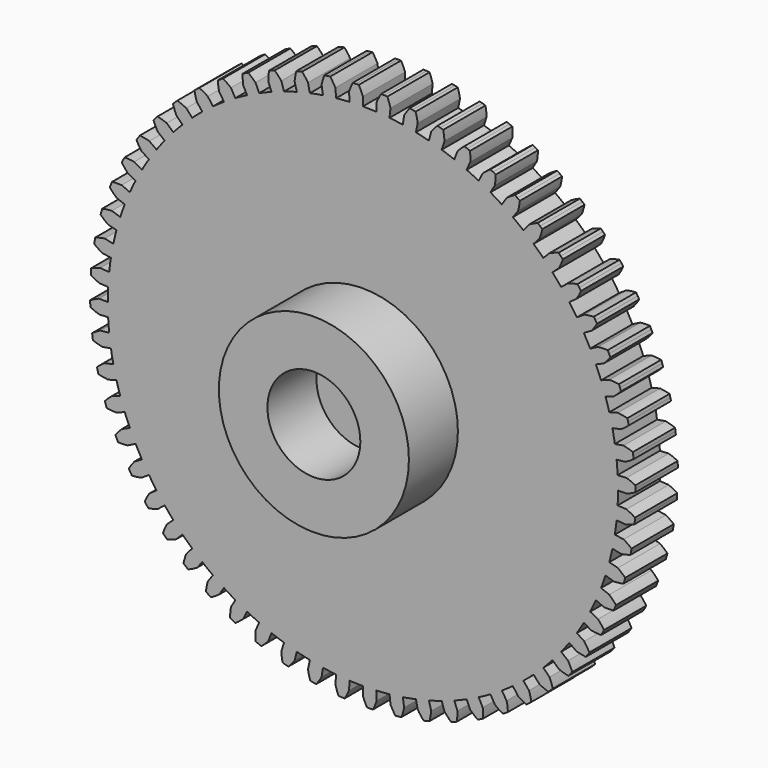
from build123d import *

# Parameters (mm, degrees)
F1_DEPTH = 6.35
F2_R     = 11.43
F3_DEPTH = 7.366
F4_R     = 5.588
F5_DEPTH = 7.366


with BuildPart() as f1:
    # F0 (on Front) → F1 (new body)
    with BuildSketch(Plane.XZ):
        with BuildLine():
            ThreePointArc((0, 31.75), (-0.228242, 32.284246), (-0.494949, 32.800366))
            ThreePointArc((-0.494949, 32.800366), (-0.676841, 32.797117), (-0.858711, 32.792859))
            ThreePointArc((-0.858711, 32.792859), (-1.040555, 32.787592), (-1.222367, 32.781318))
            ThreePointArc((-1.222367, 32.781318), (-1.461697, 32.251946), (-1.661667, 31.706488))
            Line((-1.661667, 31.706488), (-1.605835, 30.64115))
            ThreePointArc((-1.605835, 30.64115), (-2.407376, 30.588614), (-3.207268, 30.515114))
            Line((-3.207268, 30.515114), (-3.318779, 31.57607))
            ThreePointArc((-3.318779, 31.57607), (-3.601615, 32.083531), (-3.92081, 32.568946))
            ThreePointArc((-3.92081, 32.568946), (-4.101365, 32.546702), (-4.281794, 32.523456))
            ThreePointArc((-4.281794, 32.523456), (-4.462092, 32.499211), (-4.642252, 32.473966))
            ThreePointArc((-4.642252, 32.473966), (-4.824936, 31.922478), (-4.966794, 31.359105))
            Line((-4.966794, 31.359105), (-4.79991, 30.305439))
            ThreePointArc((-4.79991, 30.305439), (-5.591569, 30.169407), (-6.379396, 30.012698))
            Line((-6.379396, 30.012698), (-6.601196, 31.056186))
            ThreePointArc((-6.601196, 31.056186), (-6.935527, 31.531303), (-7.303713, 31.980693))
            ThreePointArc((-7.303713, 31.980693), (-7.480954, 31.939698), (-7.657965, 31.89772))
            ThreePointArc((-7.657965, 31.89772), (-7.83474, 31.854761), (-8.011275, 31.810823))
            ThreePointArc((-8.011275, 31.810823), (-8.135312, 31.24326), (-8.217505, 30.668145))
            Line((-8.217505, 30.668145), (-7.941397, 29.637695))
            ThreePointArc((-7.941397, 29.637695), (-8.7145, 29.419658), (-9.48163, 29.181457))
            Line((-9.48163, 29.181457), (-9.81129, 30.196044))
            ThreePointArc((-9.81129, 30.196044), (-10.193452, 30.633611), (-10.606595, 31.042054))
            ThreePointArc((-10.606595, 31.042054), (-10.77858, 30.982756), (-10.950234, 30.922506))
            ThreePointArc((-10.950234, 30.922506), (-11.12155, 30.861304), (-11.292525, 30.799154))
            ThreePointArc((-11.292525, 30.799154), (-11.356556, 30.221734), (-11.378182, 29.641179))
            Line((-11.378182, 29.641179), (-10.995875, 28.645235))
            ThreePointArc((-10.995875, 28.645235), (-11.741952, 28.34758), (-12.479982, 28.030498))
            Line((-12.479982, 28.030498), (-12.913888, 29.005068))
            ThreePointArc((-12.913888, 29.005068), (-13.339695, 29.400291), (-13.79327, 29.763311))
            ThreePointArc((-13.79327, 29.763311), (-13.958114, 29.686361), (-14.122529, 29.608498))
            ThreePointArc((-14.122529, 29.608498), (-14.28651, 29.529724), (-14.450051, 29.450042))
            ThreePointArc((-14.450051, 29.450042), (-14.453375, 28.869093), (-14.414198, 28.289457))
            Line((-14.414198, 28.289457), (-13.929881, 27.338931))
            ThreePointArc((-13.929881, 27.338931), (-14.640758, 26.964921), (-15.3416, 26.572431))
            Line((-15.3416, 26.572431), (-15.875, 27.496307))
            ThreePointArc((-15.875, 27.496307), (-16.339786, 27.844856), (-16.828822, 28.158475))
            ThreePointArc((-16.828822, 28.158475), (-16.98472, 28.064716), (-17.140095, 27.970093))
            ThreePointArc((-17.140095, 27.970093), (-17.294944, 27.87461), (-17.44926, 27.77827))
            ThreePointArc((-17.44926, 27.77827), (-17.39184, 27.200156), (-17.292289, 26.627791))
            Line((-17.292289, 26.627791), (-16.711268, 25.733097))
            ThreePointArc((-16.711268, 25.733097), (-17.379156, 25.286829), (-18.035132, 24.82323))
            Line((-18.035132, 24.82323), (-18.662182, 25.68629))
            ThreePointArc((-18.662182, 25.68629), (-19.160855, 25.984346), (-19.679994, 26.245129))
            ThreePointArc((-19.679994, 26.245129), (-19.825237, 26.135588), (-19.969871, 26.025242))
            ThreePointArc((-19.969871, 26.025242), (-20.11389, 25.914096), (-20.257291, 25.802154))
            ThreePointArc((-20.257291, 25.802154), (-20.139756, 25.233209), (-19.980922, 24.674384))
            Line((-19.980922, 24.674384), (-19.309563, 23.845325))
            ThreePointArc((-19.309563, 23.845325), (-19.927144, 23.331688), (-20.531068, 22.802061))
            Line((-20.531068, 22.802061), (-21.244897, 23.594848))
            ThreePointArc((-21.244897, 23.594848), (-21.771994, 23.839146), (-22.315548, 24.044236))
            ThreePointArc((-22.315548, 24.044236), (-22.448545, 23.920113), (-22.580852, 23.795253))
            ThreePointArc((-22.580852, 23.795253), (-22.712465, 23.669662), (-22.843379, 23.543343))
            ThreePointArc((-22.843379, 23.543343), (-22.667017, 22.989801), (-22.45064, 22.45064))
            Line((-22.45064, 22.45064), (-21.696299, 21.696299))
            ThreePointArc((-21.696299, 21.696299), (-22.256807, 21.120921), (-22.802061, 20.531068))
            Line((-22.802061, 20.531068), (-23.594848, 21.244897))
            ThreePointArc((-23.594848, 21.244897), (-24.144594, 21.43276), (-24.706608, 21.57991))
            ThreePointArc((-24.706608, 21.57991), (-24.825902, 21.442564), (-24.944433, 21.304559))
            ThreePointArc((-24.944433, 21.304559), (-25.062197, 21.165898), (-25.17919, 21.026587))
            ThreePointArc((-25.17919, 21.026587), (-24.945933, 20.494512), (-24.674384, 19.980922))
            Line((-24.674384, 19.980922), (-23.845325, 19.309563))
            ThreePointArc((-23.845325, 19.309563), (-24.342619, 18.678749), (-24.82323, 18.035132))
            Line((-24.82323, 18.035132), (-25.68629, 18.662182))
            ThreePointArc((-25.68629, 18.662182), (-26.252661, 18.791551), (-26.826977, 18.879149))
            ThreePointArc((-26.826977, 18.879149), (-26.931262, 18.730086), (-27.034718, 18.580447))
            ThreePointArc((-27.034718, 18.580447), (-27.137343, 18.430236), (-27.239133, 18.279459))
            ThreePointArc((-27.239133, 18.279459), (-26.951537, 17.77468), (-26.627791, 17.292289))
            Line((-26.627791, 17.292289), (-25.733097, 16.711268))
            ThreePointArc((-25.733097, 16.711268), (-26.161729, 16.031928), (-26.572431, 15.3416))
            Line((-26.572431, 15.3416), (-27.496307, 15.875))
            ThreePointArc((-27.496307, 15.875), (-28.073098, 15.944459), (-28.653425, 15.971544))
            ThreePointArc((-28.653425, 15.971544), (-28.741557, 15.812397), (-28.828804, 15.652764))
            ThreePointArc((-28.828804, 15.652764), (-28.915166, 15.492649), (-29.000638, 15.332058))
            ThreePointArc((-29.000638, 15.332058), (-28.661854, 14.860106), (-28.289457, 14.414198))
            Line((-28.289457, 14.414198), (-27.338931, 13.929881))
            ThreePointArc((-27.338931, 13.929881), (-27.694205, 13.209458), (-28.030498, 12.479982))
            Line((-28.030498, 12.479982), (-29.005068, 12.913888))
            ThreePointArc((-29.005068, 12.913888), (-29.58596, 12.922676), (-30.165939, 12.888952))
            ThreePointArc((-30.165939, 12.888952), (-30.236953, 12.721464), (-30.307037, 12.553586))
            ThreePointArc((-30.307037, 12.553586), (-30.376188, 12.385321), (-30.444406, 12.216675))
            ThreePointArc((-30.444406, 12.216675), (-30.058145, 11.782721), (-29.641179, 11.378182))
            Line((-29.641179, 11.378182), (-28.645235, 10.995875))
            ThreePointArc((-28.645235, 10.995875), (-28.923257, 10.242263), (-29.181457, 9.48163))
            Line((-29.181457, 9.48163), (-30.196044, 9.81129))
            ThreePointArc((-30.196044, 9.81129), (-30.774673, 9.759309), (-31.34795, 9.665146))
            ThreePointArc((-31.34795, 9.665146), (-31.401067, 9.491153), (-31.453218, 9.316868))
            ThreePointArc((-31.453218, 9.316868), (-31.504403, 9.142296), (-31.554618, 8.967444))
            ThreePointArc((-31.554618, 8.967444), (-31.125113, 8.576243), (-30.668145, 8.217505))
            Line((-30.668145, 8.217505), (-29.637695, 7.941397))
            ThreePointArc((-29.637695, 7.941397), (-29.835421, 7.162851), (-30.012698, 6.379396))
            Line((-30.012698, 6.379396), (-31.056186, 6.601196))
            ThreePointArc((-31.056186, 6.601196), (-31.626212, 6.489017), (-32.186505, 6.335446))
            ThreePointArc((-32.186505, 6.335446), (-32.221144, 6.156854), (-32.254792, 5.978072))
            ThreePointArc((-32.254792, 5.978072), (-32.287449, 5.799107), (-32.319112, 5.619964))
            ThreePointArc((-32.319112, 5.619964), (-31.851068, 5.275801), (-31.359105, 4.966794))
            Line((-31.359105, 4.966794), (-30.305439, 4.79991))
            ThreePointArc((-30.305439, 4.79991), (-30.420701, 4.004961), (-30.515114, 3.207268))
            Line((-30.515114, 3.207268), (-31.57607, 3.318779))
            ThreePointArc((-31.57607, 3.318779), (-32.131247, 3.147631), (-32.672418, 2.936334))
            ThreePointArc((-32.672418, 2.936334), (-32.6882, 2.755099), (-32.702976, 2.57378))
            ThreePointArc((-32.702976, 2.57378), (-32.716746, 2.392382), (-32.72951, 2.21091))
            ThreePointArc((-32.72951, 2.21091), (-32.228056, 1.917556), (-31.706488, 1.661667))
            Line((-31.706488, 1.661667), (-30.64115, 1.605835))
            ThreePointArc((-30.64115, 1.605835), (-30.672686, 0.803193), (-30.6832, 0))
            Line((-30.6832, 0), (-31.75, 0))
            ThreePointArc((-31.75, 0), (-32.284246, -0.228242), (-32.800366, -0.494949))
            ThreePointArc((-32.800366, -0.494949), (-32.797117, -0.676841), (-32.792859, -0.858711))
            ThreePointArc((-32.792859, -0.858711), (-32.787592, -1.040555), (-32.781318, -1.222367))
            ThreePointArc((-32.781318, -1.222367), (-32.251946, -1.461697), (-31.706488, -1.661667))
            Line((-31.706488, -1.661667), (-30.64115, -1.605835))
            ThreePointArc((-30.64115, -1.605835), (-30.588614, -2.407376), (-30.515114, -3.207268))
            Line((-30.515114, -3.207268), (-31.57607, -3.318779))
            ThreePointArc((-31.57607, -3.318779), (-32.083531, -3.601615), (-32.568946, -3.92081))
            ThreePointArc((-32.568946, -3.92081), (-32.546702, -4.101365), (-32.523456, -4.281794))
            ThreePointArc((-32.523456, -4.281794), (-32.499211, -4.462092), (-32.473966, -4.642252))
            ThreePointArc((-32.473966, -4.642252), (-31.922478, -4.824936), (-31.359105, -4.966794))
            Line((-31.359105, -4.966794), (-30.305439, -4.79991))
            ThreePointArc((-30.305439, -4.79991), (-30.169407, -5.591569), (-30.012698, -6.379396))
            Line((-30.012698, -6.379396), (-31.056186, -6.601196))
            ThreePointArc((-31.056186, -6.601196), (-31.531303, -6.935527), (-31.980693, -7.303713))
            ThreePointArc((-31.980693, -7.303713), (-31.939698, -7.480954), (-31.89772, -7.657965))
            ThreePointArc((-31.89772, -7.657965), (-31.854761, -7.83474), (-31.810823, -8.011275))
            ThreePointArc((-31.810823, -8.011275), (-31.24326, -8.135312), (-30.668145, -8.217505))
            Line((-30.668145, -8.217505), (-29.637695, -7.941397))
            ThreePointArc((-29.637695, -7.941397), (-29.419658, -8.7145), (-29.181457, -9.48163))
            Line((-29.181457, -9.48163), (-30.196044, -9.81129))
            ThreePointArc((-30.196044, -9.81129), (-30.633611, -10.193452), (-31.042054, -10.606595))
            ThreePointArc((-31.042054, -10.606595), (-30.982756, -10.77858), (-30.922506, -10.950234))
            ThreePointArc((-30.922506, -10.950234), (-30.861304, -11.12155), (-30.799154, -11.292525))
            ThreePointArc((-30.799154, -11.292525), (-30.221734, -11.356556), (-29.641179, -11.378182))
            Line((-29.641179, -11.378182), (-28.645235, -10.995875))
            ThreePointArc((-28.645235, -10.995875), (-28.34758, -11.741952), (-28.030498, -12.479982))
            Line((-28.030498, -12.479982), (-29.005068, -12.913888))
            ThreePointArc((-29.005068, -12.913888), (-29.400291, -13.339695), (-29.763311, -13.79327))
            ThreePointArc((-29.763311, -13.79327), (-29.686361, -13.958114), (-29.608498, -14.122529))
            ThreePointArc((-29.608498, -14.122529), (-29.529724, -14.28651), (-29.450042, -14.450051))
            ThreePointArc((-29.450042, -14.450051), (-28.869093, -14.453375), (-28.289457, -14.414198))
            Line((-28.289457, -14.414198), (-27.338931, -13.929881))
            ThreePointArc((-27.338931, -13.929881), (-26.964921, -14.640758), (-26.572431, -15.3416))
            Line((-26.572431, -15.3416), (-27.496307, -15.875))
            ThreePointArc((-27.496307, -15.875), (-27.844856, -16.339786), (-28.158475, -16.828822))
            ThreePointArc((-28.158475, -16.828822), (-28.064716, -16.98472), (-27.970093, -17.140095))
            ThreePointArc((-27.970093, -17.140095), (-27.87461, -17.294944), (-27.77827, -17.44926))
            ThreePointArc((-27.77827, -17.44926), (-27.200156, -17.39184), (-26.627791, -17.292289))
            Line((-26.627791, -17.292289), (-25.733097, -16.711268))
            ThreePointArc((-25.733097, -16.711268), (-25.286829, -17.379156), (-24.82323, -18.035132))
            Line((-24.82323, -18.035132), (-25.68629, -18.662182))
            ThreePointArc((-25.68629, -18.662182), (-25.984346, -19.160855), (-26.245129, -19.679994))
            ThreePointArc((-26.245129, -19.679994), (-26.135588, -19.825237), (-26.025242, -19.969871))
            ThreePointArc((-26.025242, -19.969871), (-25.914096, -20.11389), (-25.802154, -20.257291))
            ThreePointArc((-25.802154, -20.257291), (-25.233209, -20.139756), (-24.674384, -19.980922))
            Line((-24.674384, -19.980922), (-23.845325, -19.309563))
            ThreePointArc((-23.845325, -19.309563), (-23.331688, -19.927144), (-22.802061, -20.531068))
            Line((-22.802061, -20.531068), (-23.594848, -21.244897))
            ThreePointArc((-23.594848, -21.244897), (-23.839146, -21.771994), (-24.044236, -22.315548))
            ThreePointArc((-24.044236, -22.315548), (-23.920113, -22.448545), (-23.795253, -22.580852))
            ThreePointArc((-23.795253, -22.580852), (-23.669662, -22.712465), (-23.543343, -22.843379))
            ThreePointArc((-23.543343, -22.843379), (-22.989801, -22.667017), (-22.45064, -22.45064))
            Line((-22.45064, -22.45064), (-21.696299, -21.696299))
            ThreePointArc((-21.696299, -21.696299), (-21.120921, -22.256807), (-20.531068, -22.802061))
            Line((-20.531068, -22.802061), (-21.244897, -23.594848))
            ThreePointArc((-21.244897, -23.594848), (-21.43276, -24.144594), (-21.57991, -24.706608))
            ThreePointArc((-21.57991, -24.706608), (-21.442564, -24.825902), (-21.304559, -24.944433))
            ThreePointArc((-21.304559, -24.944433), (-21.165898, -25.062197), (-21.026587, -25.17919))
            ThreePointArc((-21.026587, -25.17919), (-20.494512, -24.945933), (-19.980922, -24.674384))
            Line((-19.980922, -24.674384), (-19.309563, -23.845325))
            ThreePointArc((-19.309563, -23.845325), (-18.678749, -24.342619), (-18.035132, -24.82323))
            Line((-18.035132, -24.82323), (-18.662182, -25.68629))
            ThreePointArc((-18.662182, -25.68629), (-18.791551, -26.252661), (-18.879149, -26.826977))
            ThreePointArc((-18.879149, -26.826977), (-18.730086, -26.931262), (-18.580447, -27.034718))
            ThreePointArc((-18.580447, -27.034718), (-18.430236, -27.137343), (-18.279459, -27.239133))
            ThreePointArc((-18.279459, -27.239133), (-17.77468, -26.951537), (-17.292289, -26.627791))
            Line((-17.292289, -26.627791), (-16.711268, -25.733097))
            ThreePointArc((-16.711268, -25.733097), (-16.031928, -26.161729), (-15.3416, -26.572431))
            Line((-15.3416, -26.572431), (-15.875, -27.496307))
            ThreePointArc((-15.875, -27.496307), (-15.944459, -28.073098), (-15.971544, -28.653425))
            ThreePointArc((-15.971544, -28.653425), (-15.812397, -28.741557), (-15.652764, -28.828804))
            ThreePointArc((-15.652764, -28.828804), (-15.492649, -28.915166), (-15.332058, -29.000638))
            ThreePointArc((-15.332058, -29.000638), (-14.860106, -28.661854), (-14.414198, -28.289457))
            Line((-14.414198, -28.289457), (-13.929881, -27.338931))
            ThreePointArc((-13.929881, -27.338931), (-13.209458, -27.694205), (-12.479982, -28.030498))
            Line((-12.479982, -28.030498), (-12.913888, -29.005068))
            ThreePointArc((-12.913888, -29.005068), (-12.922676, -29.58596), (-12.888952, -30.165939))
            ThreePointArc((-12.888952, -30.165939), (-12.721464, -30.236953), (-12.553586, -30.307037))
            ThreePointArc((-12.553586, -30.307037), (-12.385321, -30.376188), (-12.216675, -30.444406))
            ThreePointArc((-12.216675, -30.444406), (-11.782721, -30.058145), (-11.378182, -29.641179))
            Line((-11.378182, -29.641179), (-10.995875, -28.645235))
            ThreePointArc((-10.995875, -28.645235), (-10.242263, -28.923257), (-9.48163, -29.181457))
            Line((-9.48163, -29.181457), (-9.81129, -30.196044))
            ThreePointArc((-9.81129, -30.196044), (-9.759309, -30.774673), (-9.665146, -31.34795))
            ThreePointArc((-9.665146, -31.34795), (-9.491153, -31.401067), (-9.316868, -31.453218))
            ThreePointArc((-9.316868, -31.453218), (-9.142296, -31.504403), (-8.967444, -31.554618))
            ThreePointArc((-8.967444, -31.554618), (-8.576243, -31.125113), (-8.217505, -30.668145))
            Line((-8.217505, -30.668145), (-7.941397, -29.637695))
            ThreePointArc((-7.941397, -29.637695), (-7.162851, -29.835421), (-6.379396, -30.012698))
            Line((-6.379396, -30.012698), (-6.601196, -31.056186))
            ThreePointArc((-6.601196, -31.056186), (-6.489017, -31.626212), (-6.335446, -32.186505))
            ThreePointArc((-6.335446, -32.186505), (-6.156854, -32.221144), (-5.978072, -32.254792))
            ThreePointArc((-5.978072, -32.254792), (-5.799107, -32.287449), (-5.619964, -32.319112))
            ThreePointArc((-5.619964, -32.319112), (-5.275801, -31.851068), (-4.966794, -31.359105))
            Line((-4.966794, -31.359105), (-4.79991, -30.305439))
            ThreePointArc((-4.79991, -30.305439), (-4.004961, -30.420701), (-3.207268, -30.515114))
            Line((-3.207268, -30.515114), (-3.318779, -31.57607))
            ThreePointArc((-3.318779, -31.57607), (-3.147631, -32.131247), (-2.936334, -32.672418))
            ThreePointArc((-2.936334, -32.672418), (-2.755099, -32.6882), (-2.57378, -32.702976))
            ThreePointArc((-2.57378, -32.702976), (-2.392382, -32.716746), (-2.21091, -32.72951))
            ThreePointArc((-2.21091, -32.72951), (-1.917556, -32.228056), (-1.661667, -31.706488))
            Line((-1.661667, -31.706488), (-1.605835, -30.64115))
            ThreePointArc((-1.605835, -30.64115), (-0.803193, -30.672686), (0, -30.6832))
            Line((0, -30.6832), (0, -31.75))
            ThreePointArc((0, -31.75), (0.228242, -32.284246), (0.494949, -32.800366))
            ThreePointArc((0.494949, -32.800366), (0.676841, -32.797117), (0.858711, -32.792859))
            ThreePointArc((0.858711, -32.792859), (1.040555, -32.787592), (1.222367, -32.781318))
            ThreePointArc((1.222367, -32.781318), (1.461697, -32.251946), (1.661667, -31.706488))
            Line((1.661667, -31.706488), (1.605835, -30.64115))
            ThreePointArc((1.605835, -30.64115), (2.407376, -30.588614), (3.207268, -30.515114))
            Line((3.207268, -30.515114), (3.318779, -31.57607))
            ThreePointArc((3.318779, -31.57607), (3.601615, -32.083531), (3.92081, -32.568946))
            ThreePointArc((3.92081, -32.568946), (4.101365, -32.546702), (4.281794, -32.523456))
            ThreePointArc((4.281794, -32.523456), (4.462092, -32.499211), (4.642252, -32.473966))
            ThreePointArc((4.642252, -32.473966), (4.824936, -31.922478), (4.966794, -31.359105))
            Line((4.966794, -31.359105), (4.79991, -30.305439))
            ThreePointArc((4.79991, -30.305439), (5.591569, -30.169407), (6.379396, -30.012698))
            Line((6.379396, -30.012698), (6.601196, -31.056186))
            ThreePointArc((6.601196, -31.056186), (6.935527, -31.531303), (7.303713, -31.980693))
            ThreePointArc((7.303713, -31.980693), (7.480954, -31.939698), (7.657965, -31.89772))
            ThreePointArc((7.657965, -31.89772), (7.83474, -31.854761), (8.011275, -31.810823))
            ThreePointArc((8.011275, -31.810823), (8.135312, -31.24326), (8.217505, -30.668145))
            Line((8.217505, -30.668145), (7.941397, -29.637695))
            ThreePointArc((7.941397, -29.637695), (8.7145, -29.419658), (9.48163, -29.181457))
            Line((9.48163, -29.181457), (9.81129, -30.196044))
            ThreePointArc((9.81129, -30.196044), (10.193452, -30.633611), (10.606595, -31.042054))
            ThreePointArc((10.606595, -31.042054), (10.77858, -30.982756), (10.950234, -30.922506))
            ThreePointArc((10.950234, -30.922506), (11.12155, -30.861304), (11.292525, -30.799154))
            ThreePointArc((11.292525, -30.799154), (11.356556, -30.221734), (11.378182, -29.641179))
            Line((11.378182, -29.641179), (10.995875, -28.645235))
            ThreePointArc((10.995875, -28.645235), (11.741952, -28.34758), (12.479982, -28.030498))
            Line((12.479982, -28.030498), (12.913888, -29.005068))
            ThreePointArc((12.913888, -29.005068), (13.339695, -29.400291), (13.79327, -29.763311))
            ThreePointArc((13.79327, -29.763311), (13.958114, -29.686361), (14.122529, -29.608498))
            ThreePointArc((14.122529, -29.608498), (14.28651, -29.529724), (14.450051, -29.450042))
            ThreePointArc((14.450051, -29.450042), (14.453375, -28.869093), (14.414198, -28.289457))
            Line((14.414198, -28.289457), (13.929881, -27.338931))
            ThreePointArc((13.929881, -27.338931), (14.640758, -26.964921), (15.3416, -26.572431))
            Line((15.3416, -26.572431), (15.875, -27.496307))
            ThreePointArc((15.875, -27.496307), (16.339786, -27.844856), (16.828822, -28.158475))
            ThreePointArc((16.828822, -28.158475), (16.98472, -28.064716), (17.140095, -27.970093))
            ThreePointArc((17.140095, -27.970093), (17.294944, -27.87461), (17.44926, -27.77827))
            ThreePointArc((17.44926, -27.77827), (17.39184, -27.200156), (17.292289, -26.627791))
            Line((17.292289, -26.627791), (16.711268, -25.733097))
            ThreePointArc((16.711268, -25.733097), (17.379156, -25.286829), (18.035132, -24.82323))
            Line((18.035132, -24.82323), (18.662182, -25.68629))
            ThreePointArc((18.662182, -25.68629), (19.160855, -25.984346), (19.679994, -26.245129))
            ThreePointArc((19.679994, -26.245129), (19.825237, -26.135588), (19.969871, -26.025242))
            ThreePointArc((19.969871, -26.025242), (20.11389, -25.914096), (20.257291, -25.802154))
            ThreePointArc((20.257291, -25.802154), (20.139756, -25.233209), (19.980922, -24.674384))
            Line((19.980922, -24.674384), (19.309563, -23.845325))
            ThreePointArc((19.309563, -23.845325), (19.927144, -23.331688), (20.531068, -22.802061))
            Line((20.531068, -22.802061), (21.244897, -23.594848))
            ThreePointArc((21.244897, -23.594848), (21.771994, -23.839146), (22.315548, -24.044236))
            ThreePointArc((22.315548, -24.044236), (22.448545, -23.920113), (22.580852, -23.795253))
            ThreePointArc((22.580852, -23.795253), (22.712465, -23.669662), (22.843379, -23.543343))
            ThreePointArc((22.843379, -23.543343), (22.667017, -22.989801), (22.45064, -22.45064))
            Line((22.45064, -22.45064), (21.696299, -21.696299))
            ThreePointArc((21.696299, -21.696299), (22.256807, -21.120921), (22.802061, -20.531068))
            Line((22.802061, -20.531068), (23.594848, -21.244897))
            ThreePointArc((23.594848, -21.244897), (24.144594, -21.43276), (24.706608, -21.57991))
            ThreePointArc((24.706608, -21.57991), (24.825902, -21.442564), (24.944433, -21.304559))
            ThreePointArc((24.944433, -21.304559), (25.062197, -21.165898), (25.17919, -21.026587))
            ThreePointArc((25.17919, -21.026587), (24.945933, -20.494512), (24.674384, -19.980922))
            Line((24.674384, -19.980922), (23.845325, -19.309563))
            ThreePointArc((23.845325, -19.309563), (24.342619, -18.678749), (24.82323, -18.035132))
            Line((24.82323, -18.035132), (25.68629, -18.662182))
            ThreePointArc((25.68629, -18.662182), (26.252661, -18.791551), (26.826977, -18.879149))
            ThreePointArc((26.826977, -18.879149), (26.931262, -18.730086), (27.034718, -18.580447))
            ThreePointArc((27.034718, -18.580447), (27.137343, -18.430236), (27.239133, -18.279459))
            ThreePointArc((27.239133, -18.279459), (26.951537, -17.77468), (26.627791, -17.292289))
            Line((26.627791, -17.292289), (25.733097, -16.711268))
            ThreePointArc((25.733097, -16.711268), (26.161729, -16.031928), (26.572431, -15.3416))
            Line((26.572431, -15.3416), (27.496307, -15.875))
            ThreePointArc((27.496307, -15.875), (28.073098, -15.944459), (28.653425, -15.971544))
            ThreePointArc((28.653425, -15.971544), (28.741557, -15.812397), (28.828804, -15.652764))
            ThreePointArc((28.828804, -15.652764), (28.915166, -15.492649), (29.000638, -15.332058))
            ThreePointArc((29.000638, -15.332058), (28.661854, -14.860106), (28.289457, -14.414198))
            Line((28.289457, -14.414198), (27.338931, -13.929881))
            ThreePointArc((27.338931, -13.929881), (27.694205, -13.209458), (28.030498, -12.479982))
            Line((28.030498, -12.479982), (29.005068, -12.913888))
            ThreePointArc((29.005068, -12.913888), (29.58596, -12.922676), (30.165939, -12.888952))
            ThreePointArc((30.165939, -12.888952), (30.236953, -12.721464), (30.307037, -12.553586))
            ThreePointArc((30.307037, -12.553586), (30.376188, -12.385321), (30.444406, -12.216675))
            ThreePointArc((30.444406, -12.216675), (30.058145, -11.782721), (29.641179, -11.378182))
            Line((29.641179, -11.378182), (28.645235, -10.995875))
            ThreePointArc((28.645235, -10.995875), (28.923257, -10.242263), (29.181457, -9.48163))
            Line((29.181457, -9.48163), (30.196044, -9.81129))
            ThreePointArc((30.196044, -9.81129), (30.774673, -9.759309), (31.34795, -9.665146))
            ThreePointArc((31.34795, -9.665146), (31.401067, -9.491153), (31.453218, -9.316868))
            ThreePointArc((31.453218, -9.316868), (31.504403, -9.142296), (31.554618, -8.967444))
            ThreePointArc((31.554618, -8.967444), (31.125113, -8.576243), (30.668145, -8.217505))
            Line((30.668145, -8.217505), (29.637695, -7.941397))
            ThreePointArc((29.637695, -7.941397), (29.835421, -7.162851), (30.012698, -6.379396))
            Line((30.012698, -6.379396), (31.056186, -6.601196))
            ThreePointArc((31.056186, -6.601196), (31.626212, -6.489017), (32.186505, -6.335446))
            ThreePointArc((32.186505, -6.335446), (32.221144, -6.156854), (32.254792, -5.978072))
            ThreePointArc((32.254792, -5.978072), (32.287449, -5.799107), (32.319112, -5.619964))
            ThreePointArc((32.319112, -5.619964), (31.851068, -5.275801), (31.359105, -4.966794))
            Line((31.359105, -4.966794), (30.305439, -4.79991))
            ThreePointArc((30.305439, -4.79991), (30.420701, -4.004961), (30.515114, -3.207268))
            Line((30.515114, -3.207268), (31.57607, -3.318779))
            ThreePointArc((31.57607, -3.318779), (32.131247, -3.147631), (32.672418, -2.936334))
            ThreePointArc((32.672418, -2.936334), (32.6882, -2.755099), (32.702976, -2.57378))
            ThreePointArc((32.702976, -2.57378), (32.716746, -2.392382), (32.72951, -2.21091))
            ThreePointArc((32.72951, -2.21091), (32.228056, -1.917556), (31.706488, -1.661667))
            Line((31.706488, -1.661667), (30.64115, -1.605835))
            ThreePointArc((30.64115, -1.605835), (30.672686, -0.803193), (30.6832, 0))
            Line((30.6832, 0), (31.75, 0))
            ThreePointArc((31.75, 0), (32.284246, 0.228242), (32.800366, 0.494949))
            ThreePointArc((32.800366, 0.494949), (32.797117, 0.676841), (32.792859, 0.858711))
            ThreePointArc((32.792859, 0.858711), (32.787592, 1.040555), (32.781318, 1.222367))
            ThreePointArc((32.781318, 1.222367), (32.251946, 1.461697), (31.706488, 1.661667))
            Line((31.706488, 1.661667), (30.64115, 1.605835))
            ThreePointArc((30.64115, 1.605835), (30.588614, 2.407376), (30.515114, 3.207268))
            Line((30.515114, 3.207268), (31.57607, 3.318779))
            ThreePointArc((31.57607, 3.318779), (32.083531, 3.601615), (32.568946, 3.92081))
            ThreePointArc((32.568946, 3.92081), (32.546702, 4.101365), (32.523456, 4.281794))
            ThreePointArc((32.523456, 4.281794), (32.499211, 4.462092), (32.473966, 4.642252))
            ThreePointArc((32.473966, 4.642252), (31.922478, 4.824936), (31.359105, 4.966794))
            Line((31.359105, 4.966794), (30.305439, 4.79991))
            ThreePointArc((30.305439, 4.79991), (30.169407, 5.591569), (30.012698, 6.379396))
            Line((30.012698, 6.379396), (31.056186, 6.601196))
            ThreePointArc((31.056186, 6.601196), (31.531303, 6.935527), (31.980693, 7.303713))
            ThreePointArc((31.980693, 7.303713), (31.939698, 7.480954), (31.89772, 7.657965))
            ThreePointArc((31.89772, 7.657965), (31.854761, 7.83474), (31.810823, 8.011275))
            ThreePointArc((31.810823, 8.011275), (31.24326, 8.135312), (30.668145, 8.217505))
            Line((30.668145, 8.217505), (29.637695, 7.941397))
            ThreePointArc((29.637695, 7.941397), (29.419658, 8.7145), (29.181457, 9.48163))
            Line((29.181457, 9.48163), (30.196044, 9.81129))
            ThreePointArc((30.196044, 9.81129), (30.633611, 10.193452), (31.042054, 10.606595))
            ThreePointArc((31.042054, 10.606595), (30.982756, 10.77858), (30.922506, 10.950234))
            ThreePointArc((30.922506, 10.950234), (30.861304, 11.12155), (30.799154, 11.292525))
            ThreePointArc((30.799154, 11.292525), (30.221734, 11.356556), (29.641179, 11.378182))
            Line((29.641179, 11.378182), (28.645235, 10.995875))
            ThreePointArc((28.645235, 10.995875), (28.34758, 11.741952), (28.030498, 12.479982))
            Line((28.030498, 12.479982), (29.005068, 12.913888))
            ThreePointArc((29.005068, 12.913888), (29.400291, 13.339695), (29.763311, 13.79327))
            ThreePointArc((29.763311, 13.79327), (29.686361, 13.958114), (29.608498, 14.122529))
            ThreePointArc((29.608498, 14.122529), (29.529724, 14.28651), (29.450042, 14.450051))
            ThreePointArc((29.450042, 14.450051), (28.869093, 14.453375), (28.289457, 14.414198))
            Line((28.289457, 14.414198), (27.338931, 13.929881))
            ThreePointArc((27.338931, 13.929881), (26.964921, 14.640758), (26.572431, 15.3416))
            Line((26.572431, 15.3416), (27.496307, 15.875))
            ThreePointArc((27.496307, 15.875), (27.844856, 16.339786), (28.158475, 16.828822))
            ThreePointArc((28.158475, 16.828822), (28.064716, 16.98472), (27.970093, 17.140095))
            ThreePointArc((27.970093, 17.140095), (27.87461, 17.294944), (27.77827, 17.44926))
            ThreePointArc((27.77827, 17.44926), (27.200156, 17.39184), (26.627791, 17.292289))
            Line((26.627791, 17.292289), (25.733097, 16.711268))
            ThreePointArc((25.733097, 16.711268), (25.286829, 17.379156), (24.82323, 18.035132))
            Line((24.82323, 18.035132), (25.68629, 18.662182))
            ThreePointArc((25.68629, 18.662182), (25.984346, 19.160855), (26.245129, 19.679994))
            ThreePointArc((26.245129, 19.679994), (26.135588, 19.825237), (26.025242, 19.969871))
            ThreePointArc((26.025242, 19.969871), (25.914096, 20.11389), (25.802154, 20.257291))
            ThreePointArc((25.802154, 20.257291), (25.233209, 20.139756), (24.674384, 19.980922))
            Line((24.674384, 19.980922), (23.845325, 19.309563))
            ThreePointArc((23.845325, 19.309563), (23.331688, 19.927144), (22.802061, 20.531068))
            Line((22.802061, 20.531068), (23.594848, 21.244897))
            ThreePointArc((23.594848, 21.244897), (23.839146, 21.771994), (24.044236, 22.315548))
            ThreePointArc((24.044236, 22.315548), (23.920113, 22.448545), (23.795253, 22.580852))
            ThreePointArc((23.795253, 22.580852), (23.669662, 22.712465), (23.543343, 22.843379))
            ThreePointArc((23.543343, 22.843379), (22.989801, 22.667017), (22.45064, 22.45064))
            Line((22.45064, 22.45064), (21.696299, 21.696299))
            ThreePointArc((21.696299, 21.696299), (21.120921, 22.256807), (20.531068, 22.802061))
            Line((20.531068, 22.802061), (21.244897, 23.594848))
            ThreePointArc((21.244897, 23.594848), (21.43276, 24.144594), (21.57991, 24.706608))
            ThreePointArc((21.57991, 24.706608), (21.442564, 24.825902), (21.304559, 24.944433))
            ThreePointArc((21.304559, 24.944433), (21.165898, 25.062197), (21.026587, 25.17919))
            ThreePointArc((21.026587, 25.17919), (20.494512, 24.945933), (19.980922, 24.674384))
            Line((19.980922, 24.674384), (19.309563, 23.845325))
            ThreePointArc((19.309563, 23.845325), (18.678749, 24.342619), (18.035132, 24.82323))
            Line((18.035132, 24.82323), (18.662182, 25.68629))
            ThreePointArc((18.662182, 25.68629), (18.791551, 26.252661), (18.879149, 26.826977))
            ThreePointArc((18.879149, 26.826977), (18.730086, 26.931262), (18.580447, 27.034718))
            ThreePointArc((18.580447, 27.034718), (18.430236, 27.137343), (18.279459, 27.239133))
            ThreePointArc((18.279459, 27.239133), (17.77468, 26.951537), (17.292289, 26.627791))
            Line((17.292289, 26.627791), (16.711268, 25.733097))
            ThreePointArc((16.711268, 25.733097), (16.031928, 26.161729), (15.3416, 26.572431))
            Line((15.3416, 26.572431), (15.875, 27.496307))
            ThreePointArc((15.875, 27.496307), (15.944459, 28.073098), (15.971544, 28.653425))
            ThreePointArc((15.971544, 28.653425), (15.812397, 28.741557), (15.652764, 28.828804))
            ThreePointArc((15.652764, 28.828804), (15.492649, 28.915166), (15.332058, 29.000638))
            ThreePointArc((15.332058, 29.000638), (14.860106, 28.661854), (14.414198, 28.289457))
            Line((14.414198, 28.289457), (13.929881, 27.338931))
            ThreePointArc((13.929881, 27.338931), (13.209458, 27.694205), (12.479982, 28.030498))
            Line((12.479982, 28.030498), (12.913888, 29.005068))
            ThreePointArc((12.913888, 29.005068), (12.922676, 29.58596), (12.888952, 30.165939))
            ThreePointArc((12.888952, 30.165939), (12.721464, 30.236953), (12.553586, 30.307037))
            ThreePointArc((12.553586, 30.307037), (12.385321, 30.376188), (12.216675, 30.444406))
            ThreePointArc((12.216675, 30.444406), (11.782721, 30.058145), (11.378182, 29.641179))
            Line((11.378182, 29.641179), (10.995875, 28.645235))
            ThreePointArc((10.995875, 28.645235), (10.242263, 28.923257), (9.48163, 29.181457))
            Line((9.48163, 29.181457), (9.81129, 30.196044))
            ThreePointArc((9.81129, 30.196044), (9.759309, 30.774673), (9.665146, 31.34795))
            ThreePointArc((9.665146, 31.34795), (9.491153, 31.401067), (9.316868, 31.453218))
            ThreePointArc((9.316868, 31.453218), (9.142296, 31.504403), (8.967444, 31.554618))
            ThreePointArc((8.967444, 31.554618), (8.576243, 31.125113), (8.217505, 30.668145))
            Line((8.217505, 30.668145), (7.941397, 29.637695))
            ThreePointArc((7.941397, 29.637695), (7.162851, 29.835421), (6.379396, 30.012698))
            Line((6.379396, 30.012698), (6.601196, 31.056186))
            ThreePointArc((6.601196, 31.056186), (6.489017, 31.626212), (6.335446, 32.186505))
            ThreePointArc((6.335446, 32.186505), (6.156854, 32.221144), (5.978072, 32.254792))
            ThreePointArc((5.978072, 32.254792), (5.799107, 32.287449), (5.619964, 32.319112))
            ThreePointArc((5.619964, 32.319112), (5.275801, 31.851068), (4.966794, 31.359105))
            Line((4.966794, 31.359105), (4.79991, 30.305439))
            ThreePointArc((4.79991, 30.305439), (4.004961, 30.420701), (3.207268, 30.515114))
            Line((3.207268, 30.515114), (3.318779, 31.57607))
            ThreePointArc((3.318779, 31.57607), (3.147631, 32.131247), (2.936334, 32.672418))
            ThreePointArc((2.936334, 32.672418), (2.755099, 32.6882), (2.57378, 32.702976))
            ThreePointArc((2.57378, 32.702976), (2.392382, 32.716746), (2.21091, 32.72951))
            ThreePointArc((2.21091, 32.72951), (1.917556, 32.228056), (1.661667, 31.706488))
            Line((1.661667, 31.706488), (1.605835, 30.64115))
            ThreePointArc((1.605835, 30.64115), (0.803193, 30.672686), (0, 30.6832))
            Line((0, 30.6832), (0, 31.75))
        make_face()
        with BuildLine():
            ThreePointArc((-0.858711, 32.792859), (-0.676841, 32.797117), (-0.494949, 32.800366))
            Line((-0.494949, 32.800366), (-0.858764, 32.794876))
            Line((-0.858764, 32.794876), (-1.222367, 32.781318))
            ThreePointArc((-1.222367, 32.781318), (-1.040555, 32.787592), (-0.858711, 32.792859))
        make_face()
        with BuildLine():
            Line((2.573938, 32.704988), (2.21091, 32.72951))
            ThreePointArc((2.21091, 32.72951), (2.392382, 32.716746), (2.57378, 32.702976))
            ThreePointArc((2.57378, 32.702976), (2.755099, 32.6882), (2.936334, 32.672418))
            Line((2.936334, 32.672418), (2.573938, 32.704988))
        make_face()
        with BuildLine():
            ThreePointArc((-4.281794, 32.523456), (-4.101365, 32.546702), (-3.92081, 32.568946))
            Line((-3.92081, 32.568946), (-4.282058, 32.525457))
            Line((-4.282058, 32.525457), (-4.642252, 32.473966))
            ThreePointArc((-4.642252, 32.473966), (-4.462092, 32.499211), (-4.281794, 32.523456))
        make_face()
        with BuildLine():
            Line((5.97844, 32.256776), (5.619964, 32.319112))
            ThreePointArc((5.619964, 32.319112), (5.799107, 32.287449), (5.978072, 32.254792))
            ThreePointArc((5.978072, 32.254792), (6.156854, 32.221144), (6.335446, 32.186505))
            Line((6.335446, 32.186505), (5.97844, 32.256776))
        make_face()
        with BuildLine():
            ThreePointArc((-7.657965, 31.89772), (-7.480954, 31.939698), (-7.303713, 31.980693))
            Line((-7.303713, 31.980693), (-7.658436, 31.899682))
            Line((-7.658436, 31.899682), (-8.011275, 31.810823))
            ThreePointArc((-8.011275, 31.810823), (-7.83474, 31.854761), (-7.657965, 31.89772))
        make_face()
        with BuildLine():
            Line((9.317441, 31.455153), (8.967444, 31.554618))
            ThreePointArc((8.967444, 31.554618), (9.142296, 31.504403), (9.316868, 31.453218))
            ThreePointArc((9.316868, 31.453218), (9.491153, 31.401067), (9.665146, 31.34795))
            Line((9.665146, 31.34795), (9.317441, 31.455153))
        make_face()
        with BuildLine():
            ThreePointArc((-10.950234, 30.922506), (-10.77858, 30.982756), (-10.606595, 31.042054))
            Line((-10.606595, 31.042054), (-10.950907, 30.924408))
            Line((-10.950907, 30.924408), (-11.292525, 30.799154))
            ThreePointArc((-11.292525, 30.799154), (-11.12155, 30.861304), (-10.950234, 30.922506))
        make_face()
        with BuildLine():
            Line((12.554358, 30.308901), (12.216675, 30.444406))
            ThreePointArc((12.216675, 30.444406), (12.385321, 30.376188), (12.553586, 30.307037))
            ThreePointArc((12.553586, 30.307037), (12.721464, 30.236953), (12.888952, 30.165939))
            Line((12.888952, 30.165939), (12.554358, 30.308901))
        make_face()
        with BuildLine():
            ThreePointArc((-14.122529, 29.608498), (-13.958114, 29.686361), (-13.79327, 29.763311))
            Line((-13.79327, 29.763311), (-14.123398, 29.610319))
            Line((-14.123398, 29.610319), (-14.450051, 29.450042))
            ThreePointArc((-14.450051, 29.450042), (-14.28651, 29.529724), (-14.122529, 29.608498))
        make_face()
        with BuildLine():
            Line((15.653727, 28.830578), (15.332058, 29.000638))
            ThreePointArc((15.332058, 29.000638), (15.492649, 28.915166), (15.652764, 28.828804))
            ThreePointArc((15.652764, 28.828804), (15.812397, 28.741557), (15.971544, 28.653425))
            Line((15.971544, 28.653425), (15.653727, 28.830578))
        make_face()
        with BuildLine():
            ThreePointArc((-17.140095, 27.970093), (-16.98472, 28.064716), (-16.828822, 28.158475))
            Line((-16.828822, 28.158475), (-17.141149, 27.971814))
            Line((-17.141149, 27.971814), (-17.44926, 27.77827))
            ThreePointArc((-17.44926, 27.77827), (-17.294944, 27.87461), (-17.140095, 27.970093))
        make_face()
        with BuildLine():
            Line((18.58159, 27.036381), (18.279459, 27.239133))
            ThreePointArc((18.279459, 27.239133), (18.430236, 27.137343), (18.580447, 27.034718))
            ThreePointArc((18.580447, 27.034718), (18.730086, 26.931262), (18.879149, 26.826977))
            Line((18.879149, 26.826977), (18.58159, 27.036381))
        make_face()
        with BuildLine():
            ThreePointArc((-19.969871, 26.025242), (-19.825237, 26.135588), (-19.679994, 26.245129))
            Line((-19.679994, 26.245129), (-19.971099, 26.026843))
            Line((-19.971099, 26.026843), (-20.257291, 25.802154))
            ThreePointArc((-20.257291, 25.802154), (-20.11389, 25.914096), (-19.969871, 26.025242))
        make_face()
        with BuildLine():
            Line((21.305869, 24.945968), (21.026587, 25.17919))
            ThreePointArc((21.026587, 25.17919), (21.165898, 25.062197), (21.304559, 24.944433))
            ThreePointArc((21.304559, 24.944433), (21.442564, 24.825902), (21.57991, 24.706608))
            Line((21.57991, 24.706608), (21.305869, 24.945968))
        make_face()
        with BuildLine():
            ThreePointArc((-22.580852, 23.795253), (-22.448545, 23.920113), (-22.315548, 24.044236))
            Line((-22.315548, 24.044236), (-22.582241, 23.796717))
            Line((-22.582241, 23.796717), (-22.843379, 23.543343))
            ThreePointArc((-22.843379, 23.543343), (-22.712465, 23.669662), (-22.580852, 23.795253))
        make_face()
        with BuildLine():
            Line((23.796717, 22.582241), (23.543343, 22.843379))
            ThreePointArc((23.543343, 22.843379), (23.669662, 22.712465), (23.795253, 22.580852))
            ThreePointArc((23.795253, 22.580852), (23.920113, 22.448545), (24.044236, 22.315548))
            Line((24.044236, 22.315548), (23.796717, 22.582241))
        make_face()
        with BuildLine():
            ThreePointArc((-24.944433, 21.304559), (-24.825902, 21.442564), (-24.706608, 21.57991))
            Line((-24.706608, 21.57991), (-24.945968, 21.305869))
            Line((-24.945968, 21.305869), (-25.17919, 21.026587))
            ThreePointArc((-25.17919, 21.026587), (-25.062197, 21.165898), (-24.944433, 21.304559))
        make_face()
        with BuildLine():
            Line((26.026843, 19.971099), (25.802154, 20.257291))
            ThreePointArc((25.802154, 20.257291), (25.914096, 20.11389), (26.025242, 19.969871))
            ThreePointArc((26.025242, 19.969871), (26.135588, 19.825237), (26.245129, 19.679994))
            Line((26.245129, 19.679994), (26.026843, 19.971099))
        make_face()
        with BuildLine():
            ThreePointArc((-27.034718, 18.580447), (-26.931262, 18.730086), (-26.826977, 18.879149))
            Line((-26.826977, 18.879149), (-27.036381, 18.58159))
            Line((-27.036381, 18.58159), (-27.239133, 18.279459))
            ThreePointArc((-27.239133, 18.279459), (-27.137343, 18.430236), (-27.034718, 18.580447))
        make_face()
        with BuildLine():
            Line((27.971814, 17.141149), (27.77827, 17.44926))
            ThreePointArc((27.77827, 17.44926), (27.87461, 17.294944), (27.970093, 17.140095))
            ThreePointArc((27.970093, 17.140095), (28.064716, 16.98472), (28.158475, 16.828822))
            Line((28.158475, 16.828822), (27.971814, 17.141149))
        make_face()
        with BuildLine():
            ThreePointArc((-28.828804, 15.652764), (-28.741557, 15.812397), (-28.653425, 15.971544))
            Line((-28.653425, 15.971544), (-28.830578, 15.653727))
            Line((-28.830578, 15.653727), (-29.000638, 15.332058))
            ThreePointArc((-29.000638, 15.332058), (-28.915166, 15.492649), (-28.828804, 15.652764))
        make_face()
        with BuildLine():
            Line((29.610319, 14.123398), (29.450042, 14.450051))
            ThreePointArc((29.450042, 14.450051), (29.529724, 14.28651), (29.608498, 14.122529))
            ThreePointArc((29.608498, 14.122529), (29.686361, 13.958114), (29.763311, 13.79327))
            Line((29.763311, 13.79327), (29.610319, 14.123398))
        make_face()
        with BuildLine():
            ThreePointArc((-30.307037, 12.553586), (-30.236953, 12.721464), (-30.165939, 12.888952))
            Line((-30.165939, 12.888952), (-30.308901, 12.554358))
            Line((-30.308901, 12.554358), (-30.444406, 12.216675))
            ThreePointArc((-30.444406, 12.216675), (-30.376188, 12.385321), (-30.307037, 12.553586))
        make_face()
        with BuildLine():
            Line((30.924408, 10.950907), (30.799154, 11.292525))
            ThreePointArc((30.799154, 11.292525), (30.861304, 11.12155), (30.922506, 10.950234))
            ThreePointArc((30.922506, 10.950234), (30.982756, 10.77858), (31.042054, 10.606595))
            Line((31.042054, 10.606595), (30.924408, 10.950907))
        make_face()
        with BuildLine():
            ThreePointArc((-31.453218, 9.316868), (-31.401067, 9.491153), (-31.34795, 9.665146))
            Line((-31.34795, 9.665146), (-31.455153, 9.317441))
            Line((-31.455153, 9.317441), (-31.554618, 8.967444))
            ThreePointArc((-31.554618, 8.967444), (-31.504403, 9.142296), (-31.453218, 9.316868))
        make_face()
        with BuildLine():
            Line((31.899682, 7.658436), (31.810823, 8.011275))
            ThreePointArc((31.810823, 8.011275), (31.854761, 7.83474), (31.89772, 7.657965))
            ThreePointArc((31.89772, 7.657965), (31.939698, 7.480954), (31.980693, 7.303713))
            Line((31.980693, 7.303713), (31.899682, 7.658436))
        make_face()
        with BuildLine():
            ThreePointArc((-32.254792, 5.978072), (-32.221144, 6.156854), (-32.186505, 6.335446))
            Line((-32.186505, 6.335446), (-32.256776, 5.97844))
            Line((-32.256776, 5.97844), (-32.319112, 5.619964))
            ThreePointArc((-32.319112, 5.619964), (-32.287449, 5.799107), (-32.254792, 5.978072))
        make_face()
        with BuildLine():
            Line((32.525457, 4.282058), (32.473966, 4.642252))
            ThreePointArc((32.473966, 4.642252), (32.499211, 4.462092), (32.523456, 4.281794))
            ThreePointArc((32.523456, 4.281794), (32.546702, 4.101365), (32.568946, 3.92081))
            Line((32.568946, 3.92081), (32.525457, 4.282058))
        make_face()
        with BuildLine():
            ThreePointArc((-32.702976, 2.57378), (-32.6882, 2.755099), (-32.672418, 2.936334))
            Line((-32.672418, 2.936334), (-32.704988, 2.573938))
            Line((-32.704988, 2.573938), (-32.72951, 2.21091))
            ThreePointArc((-32.72951, 2.21091), (-32.716746, 2.392382), (-32.702976, 2.57378))
        make_face()
        with BuildLine():
            Line((32.794876, 0.858764), (32.781318, 1.222367))
            ThreePointArc((32.781318, 1.222367), (32.787592, 1.040555), (32.792859, 0.858711))
            ThreePointArc((32.792859, 0.858711), (32.797117, 0.676841), (32.800366, 0.494949))
            Line((32.800366, 0.494949), (32.794876, 0.858764))
        make_face()
        with BuildLine():
            ThreePointArc((-32.792859, -0.858711), (-32.797117, -0.676841), (-32.800366, -0.494949))
            Line((-32.800366, -0.494949), (-32.794876, -0.858764))
            Line((-32.794876, -0.858764), (-32.781318, -1.222367))
            ThreePointArc((-32.781318, -1.222367), (-32.787592, -1.040555), (-32.792859, -0.858711))
        make_face()
        with BuildLine():
            Line((32.704988, -2.573938), (32.72951, -2.21091))
            ThreePointArc((32.72951, -2.21091), (32.716746, -2.392382), (32.702976, -2.57378))
            ThreePointArc((32.702976, -2.57378), (32.6882, -2.755099), (32.672418, -2.936334))
            Line((32.672418, -2.936334), (32.704988, -2.573938))
        make_face()
        with BuildLine():
            ThreePointArc((-32.523456, -4.281794), (-32.546702, -4.101365), (-32.568946, -3.92081))
            Line((-32.568946, -3.92081), (-32.525457, -4.282058))
            Line((-32.525457, -4.282058), (-32.473966, -4.642252))
            ThreePointArc((-32.473966, -4.642252), (-32.499211, -4.462092), (-32.523456, -4.281794))
        make_face()
        with BuildLine():
            Line((32.256776, -5.97844), (32.319112, -5.619964))
            ThreePointArc((32.319112, -5.619964), (32.287449, -5.799107), (32.254792, -5.978072))
            ThreePointArc((32.254792, -5.978072), (32.221144, -6.156854), (32.186505, -6.335446))
            Line((32.186505, -6.335446), (32.256776, -5.97844))
        make_face()
        with BuildLine():
            ThreePointArc((-31.89772, -7.657965), (-31.939698, -7.480954), (-31.980693, -7.303713))
            Line((-31.980693, -7.303713), (-31.899682, -7.658436))
            Line((-31.899682, -7.658436), (-31.810823, -8.011275))
            ThreePointArc((-31.810823, -8.011275), (-31.854761, -7.83474), (-31.89772, -7.657965))
        make_face()
        with BuildLine():
            Line((31.455153, -9.317441), (31.554618, -8.967444))
            ThreePointArc((31.554618, -8.967444), (31.504403, -9.142296), (31.453218, -9.316868))
            ThreePointArc((31.453218, -9.316868), (31.401067, -9.491153), (31.34795, -9.665146))
            Line((31.34795, -9.665146), (31.455153, -9.317441))
        make_face()
        with BuildLine():
            ThreePointArc((-30.922506, -10.950234), (-30.982756, -10.77858), (-31.042054, -10.606595))
            Line((-31.042054, -10.606595), (-30.924408, -10.950907))
            Line((-30.924408, -10.950907), (-30.799154, -11.292525))
            ThreePointArc((-30.799154, -11.292525), (-30.861304, -11.12155), (-30.922506, -10.950234))
        make_face()
        with BuildLine():
            Line((30.308901, -12.554358), (30.444406, -12.216675))
            ThreePointArc((30.444406, -12.216675), (30.376188, -12.385321), (30.307037, -12.553586))
            ThreePointArc((30.307037, -12.553586), (30.236953, -12.721464), (30.165939, -12.888952))
            Line((30.165939, -12.888952), (30.308901, -12.554358))
        make_face()
        with BuildLine():
            ThreePointArc((-29.608498, -14.122529), (-29.686361, -13.958114), (-29.763311, -13.79327))
            Line((-29.763311, -13.79327), (-29.610319, -14.123398))
            Line((-29.610319, -14.123398), (-29.450042, -14.450051))
            ThreePointArc((-29.450042, -14.450051), (-29.529724, -14.28651), (-29.608498, -14.122529))
        make_face()
        with BuildLine():
            Line((28.830578, -15.653727), (29.000638, -15.332058))
            ThreePointArc((29.000638, -15.332058), (28.915166, -15.492649), (28.828804, -15.652764))
            ThreePointArc((28.828804, -15.652764), (28.741557, -15.812397), (28.653425, -15.971544))
            Line((28.653425, -15.971544), (28.830578, -15.653727))
        make_face()
        with BuildLine():
            ThreePointArc((-27.970093, -17.140095), (-28.064716, -16.98472), (-28.158475, -16.828822))
            Line((-28.158475, -16.828822), (-27.971814, -17.141149))
            Line((-27.971814, -17.141149), (-27.77827, -17.44926))
            ThreePointArc((-27.77827, -17.44926), (-27.87461, -17.294944), (-27.970093, -17.140095))
        make_face()
        with BuildLine():
            Line((27.036381, -18.58159), (27.239133, -18.279459))
            ThreePointArc((27.239133, -18.279459), (27.137343, -18.430236), (27.034718, -18.580447))
            ThreePointArc((27.034718, -18.580447), (26.931262, -18.730086), (26.826977, -18.879149))
            Line((26.826977, -18.879149), (27.036381, -18.58159))
        make_face()
        with BuildLine():
            ThreePointArc((-26.025242, -19.969871), (-26.135588, -19.825237), (-26.245129, -19.679994))
            Line((-26.245129, -19.679994), (-26.026843, -19.971099))
            Line((-26.026843, -19.971099), (-25.802154, -20.257291))
            ThreePointArc((-25.802154, -20.257291), (-25.914096, -20.11389), (-26.025242, -19.969871))
        make_face()
        with BuildLine():
            Line((24.945968, -21.305869), (25.17919, -21.026587))
            ThreePointArc((25.17919, -21.026587), (25.062197, -21.165898), (24.944433, -21.304559))
            ThreePointArc((24.944433, -21.304559), (24.825902, -21.442564), (24.706608, -21.57991))
            Line((24.706608, -21.57991), (24.945968, -21.305869))
        make_face()
        with BuildLine():
            ThreePointArc((-23.795253, -22.580852), (-23.920113, -22.448545), (-24.044236, -22.315548))
            Line((-24.044236, -22.315548), (-23.796717, -22.582241))
            Line((-23.796717, -22.582241), (-23.543343, -22.843379))
            ThreePointArc((-23.543343, -22.843379), (-23.669662, -22.712465), (-23.795253, -22.580852))
        make_face()
        with BuildLine():
            Line((22.582241, -23.796717), (22.843379, -23.543343))
            ThreePointArc((22.843379, -23.543343), (22.712465, -23.669662), (22.580852, -23.795253))
            ThreePointArc((22.580852, -23.795253), (22.448545, -23.920113), (22.315548, -24.044236))
            Line((22.315548, -24.044236), (22.582241, -23.796717))
        make_face()
        with BuildLine():
            ThreePointArc((-21.304559, -24.944433), (-21.442564, -24.825902), (-21.57991, -24.706608))
            Line((-21.57991, -24.706608), (-21.305869, -24.945968))
            Line((-21.305869, -24.945968), (-21.026587, -25.17919))
            ThreePointArc((-21.026587, -25.17919), (-21.165898, -25.062197), (-21.304559, -24.944433))
        make_face()
        with BuildLine():
            Line((19.971099, -26.026843), (20.257291, -25.802154))
            ThreePointArc((20.257291, -25.802154), (20.11389, -25.914096), (19.969871, -26.025242))
            ThreePointArc((19.969871, -26.025242), (19.825237, -26.135588), (19.679994, -26.245129))
            Line((19.679994, -26.245129), (19.971099, -26.026843))
        make_face()
        with BuildLine():
            ThreePointArc((-18.580447, -27.034718), (-18.730086, -26.931262), (-18.879149, -26.826977))
            Line((-18.879149, -26.826977), (-18.58159, -27.036381))
            Line((-18.58159, -27.036381), (-18.279459, -27.239133))
            ThreePointArc((-18.279459, -27.239133), (-18.430236, -27.137343), (-18.580447, -27.034718))
        make_face()
        with BuildLine():
            Line((17.141149, -27.971814), (17.44926, -27.77827))
            ThreePointArc((17.44926, -27.77827), (17.294944, -27.87461), (17.140095, -27.970093))
            ThreePointArc((17.140095, -27.970093), (16.98472, -28.064716), (16.828822, -28.158475))
            Line((16.828822, -28.158475), (17.141149, -27.971814))
        make_face()
        with BuildLine():
            ThreePointArc((-15.652764, -28.828804), (-15.812397, -28.741557), (-15.971544, -28.653425))
            Line((-15.971544, -28.653425), (-15.653727, -28.830578))
            Line((-15.653727, -28.830578), (-15.332058, -29.000638))
            ThreePointArc((-15.332058, -29.000638), (-15.492649, -28.915166), (-15.652764, -28.828804))
        make_face()
        with BuildLine():
            Line((14.123398, -29.610319), (14.450051, -29.450042))
            ThreePointArc((14.450051, -29.450042), (14.28651, -29.529724), (14.122529, -29.608498))
            ThreePointArc((14.122529, -29.608498), (13.958114, -29.686361), (13.79327, -29.763311))
            Line((13.79327, -29.763311), (14.123398, -29.610319))
        make_face()
        with BuildLine():
            ThreePointArc((-12.553586, -30.307037), (-12.721464, -30.236953), (-12.888952, -30.165939))
            Line((-12.888952, -30.165939), (-12.554358, -30.308901))
            Line((-12.554358, -30.308901), (-12.216675, -30.444406))
            ThreePointArc((-12.216675, -30.444406), (-12.385321, -30.376188), (-12.553586, -30.307037))
        make_face()
        with BuildLine():
            Line((10.950907, -30.924408), (11.292525, -30.799154))
            ThreePointArc((11.292525, -30.799154), (11.12155, -30.861304), (10.950234, -30.922506))
            ThreePointArc((10.950234, -30.922506), (10.77858, -30.982756), (10.606595, -31.042054))
            Line((10.606595, -31.042054), (10.950907, -30.924408))
        make_face()
        with BuildLine():
            ThreePointArc((-9.316868, -31.453218), (-9.491153, -31.401067), (-9.665146, -31.34795))
            Line((-9.665146, -31.34795), (-9.317441, -31.455153))
            Line((-9.317441, -31.455153), (-8.967444, -31.554618))
            ThreePointArc((-8.967444, -31.554618), (-9.142296, -31.504403), (-9.316868, -31.453218))
        make_face()
        with BuildLine():
            Line((7.658436, -31.899682), (8.011275, -31.810823))
            ThreePointArc((8.011275, -31.810823), (7.83474, -31.854761), (7.657965, -31.89772))
            ThreePointArc((7.657965, -31.89772), (7.480954, -31.939698), (7.303713, -31.980693))
            Line((7.303713, -31.980693), (7.658436, -31.899682))
        make_face()
        with BuildLine():
            ThreePointArc((-5.978072, -32.254792), (-6.156854, -32.221144), (-6.335446, -32.186505))
            Line((-6.335446, -32.186505), (-5.97844, -32.256776))
            Line((-5.97844, -32.256776), (-5.619964, -32.319112))
            ThreePointArc((-5.619964, -32.319112), (-5.799107, -32.287449), (-5.978072, -32.254792))
        make_face()
        with BuildLine():
            Line((4.282058, -32.525457), (4.642252, -32.473966))
            ThreePointArc((4.642252, -32.473966), (4.462092, -32.499211), (4.281794, -32.523456))
            ThreePointArc((4.281794, -32.523456), (4.101365, -32.546702), (3.92081, -32.568946))
            Line((3.92081, -32.568946), (4.282058, -32.525457))
        make_face()
        with BuildLine():
            ThreePointArc((-2.57378, -32.702976), (-2.755099, -32.6882), (-2.936334, -32.672418))
            Line((-2.936334, -32.672418), (-2.573938, -32.704988))
            Line((-2.573938, -32.704988), (-2.21091, -32.72951))
            ThreePointArc((-2.21091, -32.72951), (-2.392382, -32.716746), (-2.57378, -32.702976))
        make_face()
        with BuildLine():
            Line((0.858764, -32.794876), (1.222367, -32.781318))
            ThreePointArc((1.222367, -32.781318), (1.040555, -32.787592), (0.858711, -32.792859))
            ThreePointArc((0.858711, -32.792859), (0.676841, -32.797117), (0.494949, -32.800366))
            Line((0.494949, -32.800366), (0.858764, -32.794876))
        make_face()
    extrude(amount=-F1_DEPTH)

    # F2 (on Front) → F3 (join)
    with BuildSketch(Plane.XZ):
        Circle(F2_R)
    extrude(amount=F3_DEPTH)

    # F4 (on Front) → F5 (cut)
    with BuildSketch(Plane.XZ):
        Circle(F4_R)
    extrude(amount=F5_DEPTH, mode=Mode.SUBTRACT)


solid = f1.part
